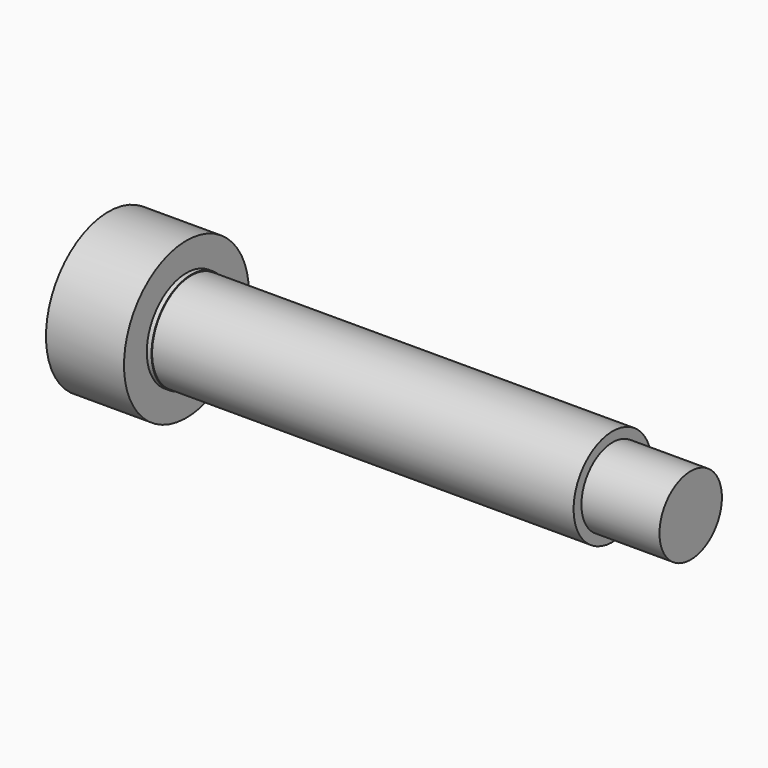
from build123d import *

# Parameters (mm, degrees)
F0_R     = 12.7
F1_DEPTH = 6.35
F2_R     = 8.063613
F3_DEPTH = 0.762
F4_R     = 7.9375
F5_DEPTH = 68.58
F6_R     = 6.35
F7_DEPTH = 12.7
F9_DEPTH = 6.35


with BuildPart() as f1:
    # F0 (on Right) → F1 (new body, symmetric)
    with BuildSketch(Plane.YZ):
        Circle(F0_R)
    extrude(amount=F1_DEPTH, both=True)

    # F2 (on face) → F3 (join)
    with BuildSketch(Plane.YZ.offset(6.35)):
        Circle(F2_R)
    extrude(amount=F3_DEPTH)

    # F4 (on face) → F5 (join)
    with BuildSketch(Plane.YZ.offset(7.112)):
        Circle(F4_R)
    extrude(amount=F5_DEPTH)

    # F6 (on face) → F7 (join)
    with BuildSketch(Plane.YZ.offset(75.692)):
        Circle(F6_R)
    extrude(amount=F7_DEPTH)

    # F8 (on face) → F9 (cut)
    with BuildSketch(Plane(origin=(-6.35, 0, 0), x_dir=(0, -1, 0), z_dir=(-1, 0, 0))):
        Polygon((6.555755, -3.784967), (6.555755, 3.784967), (0, 7.569933), (-6.555755, 3.784967), (-6.555755, -3.784967), (0, -7.569933), align=None)
    extrude(amount=-F9_DEPTH, mode=Mode.SUBTRACT)


solid = f1.part
